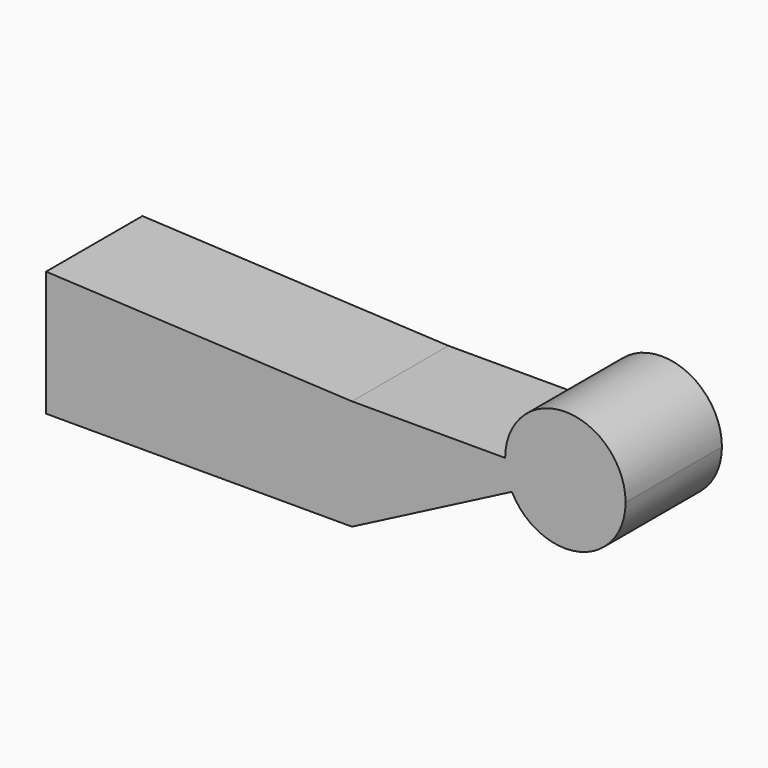
from build123d import *

# Parameters (mm, degrees)
F1_DEPTH = 25.4


with BuildPart() as f1:
    # F0 (on Front) → F1 (new body)
    with BuildSketch(Plane.XZ):
        Polygon((-82.899797516, 27.2726975213), (-82.899797516, 0.8882751458), (-18.3799119938, 0.8882751458), (-18.3799119938, 24.1686472685), align=None)
        with BuildLine():
            Line((-18.3799119938, 24.1686472685), (-18.3799119938, 0.8882751458))
            Line((-18.3799119938, 0.8882751458), (15.3484408136, 18.3339759221))
            ThreePointArc((15.3484408136, 18.3339759221), (14.2888164515, 21.1662000872), (13.9288047385, 24.1686472685))
            Line((13.9288047385, 24.1686472685), (-18.3799119938, 24.1686472685))
        make_face()
        with BuildLine():
            Line((26.6288047385, 24.1686472685), (15.3484408136, 18.3339759221))
            ThreePointArc((15.3484408136, 18.3339759221), (29.6312519198, 11.8286589814), (39.3288047385, 24.1686472685))
            ThreePointArc((39.3288047385, 24.1686472685), (26.6288047385, 36.8686472685), (13.9288047385, 24.1686472685))
            Line((13.9288047385, 24.1686472685), (26.6288047385, 24.1686472685))
        make_face()
        with BuildLine():
            ThreePointArc((13.9288047385, 24.1686472685), (14.2888164515, 21.1662000872), (15.3484408136, 18.3339759221))
            Line((15.3484408136, 18.3339759221), (26.6288047385, 24.1686472685))
            Line((26.6288047385, 24.1686472685), (13.9288047385, 24.1686472685))
        make_face()
    extrude(amount=F1_DEPTH)


solid = f1.part
